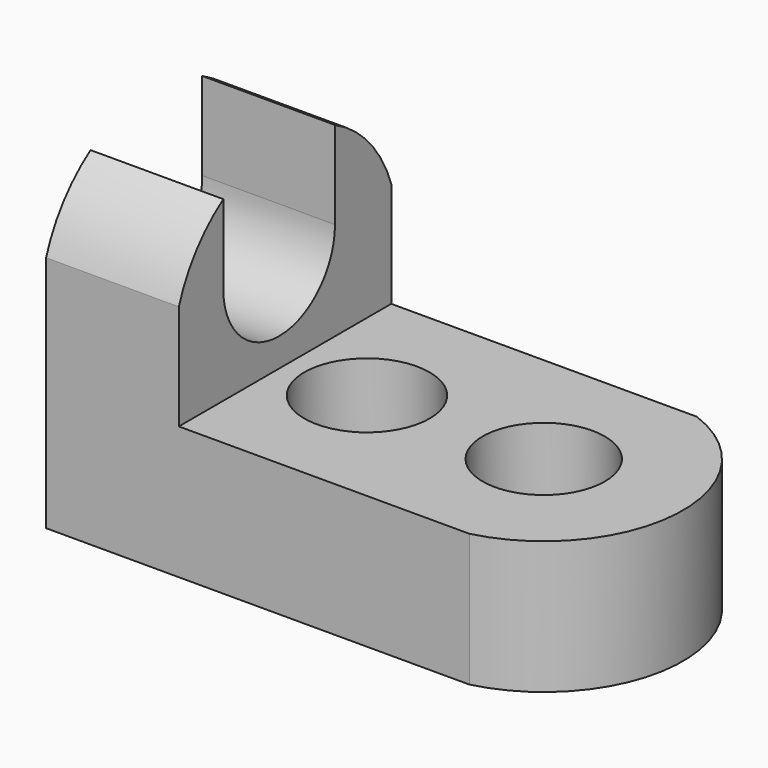
from build123d import *

# Parameters (mm, degrees)
F1_DEPTH = 25.4
F3_DEPTH = 25.4
F5_DEPTH = 25.4
F7_DEPTH = 25.4
F8_R     = 5.84435
F8_R_2   = 5.993936
F9_DEPTH = 25.4


with BuildPart() as f1:
    # F0 (on Front) → F1 (new body)
    with BuildSketch(Plane.XZ):
        Polygon((-70.167482, 32.861239), (-70.167482, 0), (-19.367482, 0), (-19.367482, 12.7), (-57.467482, 12.7), (-57.467482, 32.861239), align=None)
    extrude(amount=F1_DEPTH)

    # F2 (on face) → F3 (cut)
    with BuildSketch(Plane.YZ.offset(-57.467482)):
        with BuildLine():
            ThreePointArc((-25.4, 22.78062), (-12.7, 31.897256), (0, 22.78062))
            Line((0, 22.78062), (0, 32.861239))
            Line((0, 32.861239), (-25.4, 32.861239))
            Line((-25.4, 32.861239), (-25.4, 22.78062))
        make_face()
    extrude(amount=-F3_DEPTH, mode=Mode.SUBTRACT)

    # F4 (on face) → F5 (cut)
    with BuildSketch(Plane.YZ.offset(-57.467482)):
        with BuildLine():
            ThreePointArc((-20.083626, 22.106148), (-13.406311, 28.783463), (-6.728996, 22.106148))
            Line((-6.728996, 22.106148), (-6.728996, 30.493881))
            ThreePointArc((-6.728996, 30.493881), (-13.515075, 31.872452), (-20.083626, 29.680317))
            Line((-20.083626, 29.680317), (-20.083626, 22.106148))
        make_face()
        with BuildLine():
            ThreePointArc((-20.083626, 22.106148), (-13.406311, 15.428833), (-6.728996, 22.106148))
            ThreePointArc((-6.728996, 22.106148), (-13.406311, 28.783463), (-20.083626, 22.106148))
        make_face()
    extrude(amount=-F5_DEPTH, mode=Mode.SUBTRACT)

    # F6 (on face) → F7 (cut)
    with BuildSketch(Plane.XY.offset(12.7)):
        with BuildLine():
            ThreePointArc((-28.238824, 0), (-19.601071, -13.225048), (-29.665027, -25.4))
            Line((-29.665027, -25.4), (-19.367482, -25.4))
            Line((-19.367482, -25.4), (-19.367482, 0))
            Line((-19.367482, 0), (-28.238824, 0))
        make_face()
    extrude(amount=-F7_DEPTH, mode=Mode.SUBTRACT)

    # F8 (on face) → F9 (cut)
    with BuildSketch(Plane.XY.offset(12.7)):
        with Locations((-32.900844, -12.478269)):
            Circle(F8_R)
        with Locations((-49.631871, -12.7)):
            Circle(F8_R_2)
    extrude(amount=-F9_DEPTH, mode=Mode.SUBTRACT)


solid = f1.part
